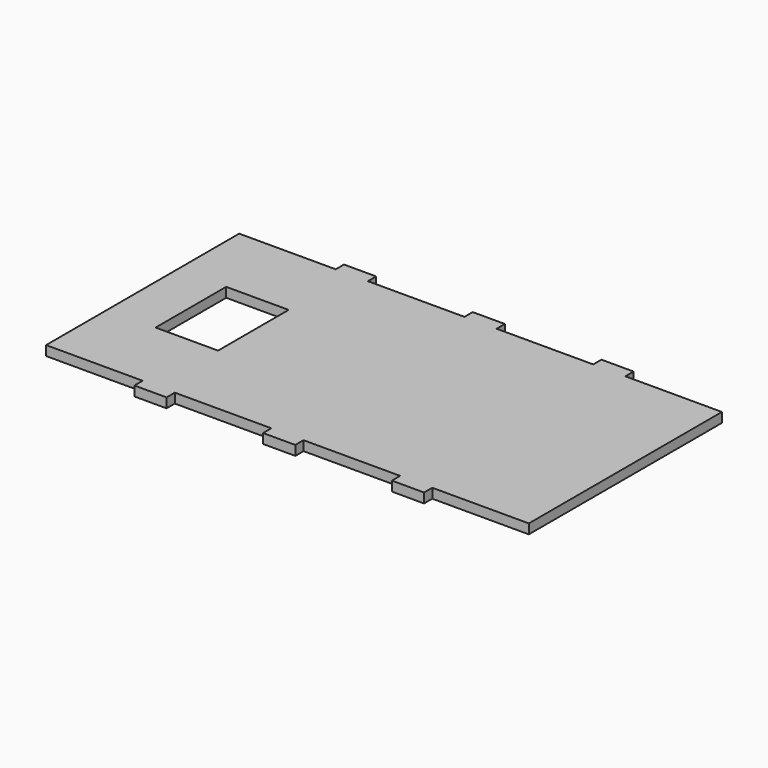
from build123d import *

# Parameters (mm, degrees)
F0_W     = 19.4
F0_H     = 27.4
F1_DEPTH = 3


with BuildPart() as f1:
    # F0 (on Top) → F1 (new body)
    with BuildSketch(Plane.XY):
        Polygon((-45, 37.5), (-75, 37.5), (-75, -37.5), (-45, -37.5), (-45, -40.7), (-35, -40.7), (-35, -37.5), (-5, -37.5), (-5, -40.7), (5, -40.7), (5, -37.5), (35, -37.5), (35, -40.7), (45, -40.7), (45, -37.5), (75, -37.5), (75, 37.5), (45, 37.5), (45, 40.7), (35, 40.7), (35, 37.5), (5, 37.5), (5, 40.7), (-5, 40.7), (-5, 37.5), (-35, 37.5), (-35, 40.7), (-45, 40.7), align=None)
        with Locations((-50.3, 0)):
            Rectangle(F0_W, F0_H, mode=Mode.SUBTRACT)
    extrude(amount=F1_DEPTH)


solid = f1.part
